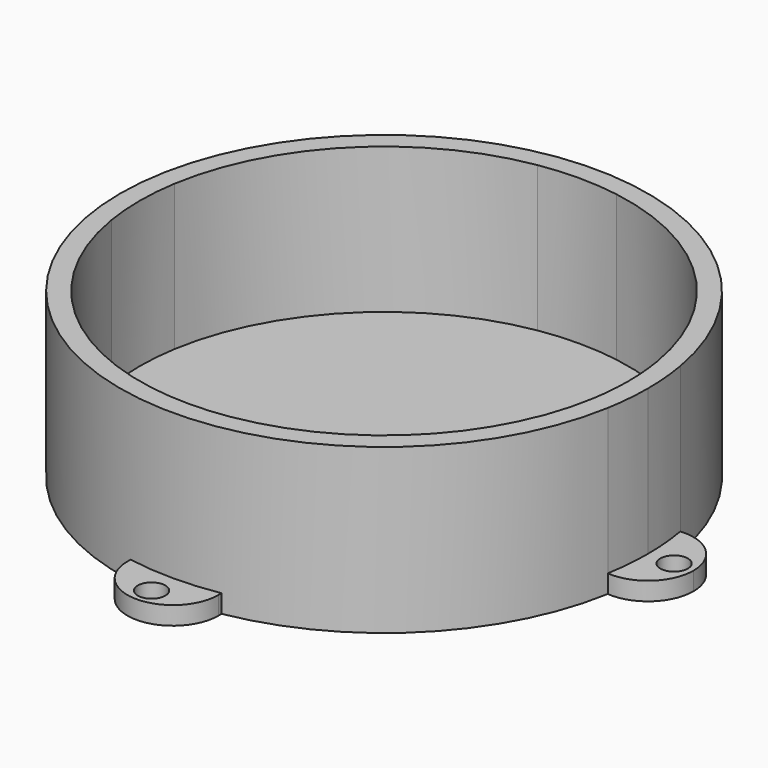
from build123d import *

# Parameters (mm, degrees)
F1_DEPTH = 22.86
F0_R     = 1.8722733439
F0_R_2   = 1.9209804317
F0_R_3   = 1.9256313038
F0_R_4   = 1.8807999876
F2_DEPTH = 2.54


with BuildPart() as f1:
    # F0 (on Top) → F1 (new body)
    with BuildSketch(Plane.XY):
        with BuildLine():
            ThreePointArc((33.6480656978, 5.4952519594), (34.9195825883, 6.055807569), (36.2825862069, 6.3263605761))
            ThreePointArc((36.2825862069, 6.3263605761), (26.0427427511, 26.0427427511), (6.3263605761, 36.2825862069))
            ThreePointArc((6.3263605761, 36.2825862069), (6.055807569, 34.9195825883), (5.4952519594, 33.6480656978))
            ThreePointArc((5.4952519594, 33.6480656978), (24.1079874658, 24.1079874658), (33.6480656978, 5.4952519594))
        make_face()
        with BuildLine():
            ThreePointArc((-5.4952519594, 33.6480656978), (-6.055807569, 34.9195825883), (-6.3263605761, 36.2825862069))
            ThreePointArc((-6.3263605761, 36.2825862069), (-26.0427427511, 26.0427427511), (-36.2825862069, 6.3263605761))
            ThreePointArc((-36.2825862069, 6.3263605761), (-34.9195825883, 6.055807569), (-33.6480656978, 5.4952519594))
            ThreePointArc((-33.6480656978, 5.4952519594), (-24.1079874658, 24.1079874658), (-5.4952519594, 33.6480656978))
        make_face()
        with BuildLine():
            ThreePointArc((-36.2825862069, -6.3263605761), (-26.0427427511, -26.0427427511), (-6.3263605761, -36.2825862069))
            ThreePointArc((-6.3263605761, -36.2825862069), (-6.055807569, -34.9195825883), (-5.4952519594, -33.6480656978))
            ThreePointArc((-5.4952519594, -33.6480656978), (-24.1079874658, -24.1079874658), (-33.6480656978, -5.4952519594))
            ThreePointArc((-33.6480656978, -5.4952519594), (-34.9195825883, -6.055807569), (-36.2825862069, -6.3263605761))
        make_face()
        with BuildLine():
            ThreePointArc((6.3263605761, -36.2825862069), (26.0427427511, -26.0427427511), (36.2825862069, -6.3263605761))
            ThreePointArc((36.2825862069, -6.3263605761), (34.9195825883, -6.055807569), (33.6480656978, -5.4952519594))
            ThreePointArc((33.6480656978, -5.4952519594), (24.1079874658, -24.1079874658), (5.4952519594, -33.6480656978))
            ThreePointArc((5.4952519594, -33.6480656978), (6.055807569, -34.9195825883), (6.3263605761, -36.2825862069))
        make_face()
        with BuildLine():
            ThreePointArc((5.4952519594, 33.6480656978), (6.055807569, 34.9195825883), (6.3263605761, 36.2825862069))
            ThreePointArc((6.3263605761, 36.2825862069), (0, 36.83), (-6.3263605761, 36.2825862069))
            ThreePointArc((-6.3263605761, 36.2825862069), (-6.055807569, 34.9195825883), (-5.4952519594, 33.6480656978))
            ThreePointArc((-5.4952519594, 33.6480656978), (0, 34.0938428357), (5.4952519594, 33.6480656978))
        make_face()
        with BuildLine():
            ThreePointArc((-33.6480656978, 5.4952519594), (-34.9195825883, 6.055807569), (-36.2825862069, 6.3263605761))
            ThreePointArc((-36.2825862069, 6.3263605761), (-36.83, 0), (-36.2825862069, -6.3263605761))
            ThreePointArc((-36.2825862069, -6.3263605761), (-34.9195825883, -6.055807569), (-33.6480656978, -5.4952519594))
            ThreePointArc((-33.6480656978, -5.4952519594), (-34.0938428357, 0), (-33.6480656978, 5.4952519594))
        make_face()
        with BuildLine():
            ThreePointArc((-6.3263605761, -36.2825862069), (0, -36.83), (6.3263605761, -36.2825862069))
            ThreePointArc((6.3263605761, -36.2825862069), (6.055807569, -34.9195825883), (5.4952519594, -33.6480656978))
            ThreePointArc((5.4952519594, -33.6480656978), (0, -34.0938428357), (-5.4952519594, -33.6480656978))
            ThreePointArc((-5.4952519594, -33.6480656978), (-6.055807569, -34.9195825883), (-6.3263605761, -36.2825862069))
        make_face()
        with BuildLine():
            ThreePointArc((36.2825862069, -6.3263605761), (36.6928913415, -3.175), (36.83, 0))
            ThreePointArc((36.83, 0), (36.6928913415, 3.175), (36.2825862069, 6.3263605761))
            ThreePointArc((36.2825862069, 6.3263605761), (34.9195825883, 6.055807569), (33.6480656978, 5.4952519594))
            ThreePointArc((33.6480656978, 5.4952519594), (33.9822158116, 2.7566515627), (34.0938428357, 0))
            ThreePointArc((34.0938428357, 0), (33.9822158116, -2.7566515627), (33.6480656978, -5.4952519594))
            ThreePointArc((33.6480656978, -5.4952519594), (34.9195825883, -6.055807569), (36.2825862069, -6.3263605761))
        make_face()
    extrude(amount=F1_DEPTH)

    # F0 (on Top) → F2 (join)
    with BuildSketch(Plane.XY):
        with BuildLine():
            ThreePointArc((33.6480656978, -5.4952519594), (30.48, 0), (33.6480656978, 5.4952519594))
            ThreePointArc((33.6480656978, 5.4952519594), (24.1079874658, 24.1079874658), (5.4952519594, 33.6480656978))
            ThreePointArc((5.4952519594, 33.6480656978), (0, 30.48), (-5.4952519594, 33.6480656978))
            ThreePointArc((-5.4952519594, 33.6480656978), (-24.1079874658, 24.1079874658), (-33.6480656978, 5.4952519594))
            ThreePointArc((-33.6480656978, 5.4952519594), (-31.3287372896, 3.1715309538), (-30.48, 0))
            ThreePointArc((-30.48, 0), (-31.3287372896, -3.1715309538), (-33.6480656978, -5.4952519594))
            ThreePointArc((-33.6480656978, -5.4952519594), (-24.1079874658, -24.1079874658), (-5.4952519594, -33.6480656978))
            ThreePointArc((-5.4952519594, -33.6480656978), (0, -30.48), (5.4952519594, -33.6480656978))
            ThreePointArc((5.4952519594, -33.6480656978), (24.1079874658, -24.1079874658), (33.6480656978, -5.4952519594))
        make_face()
        with BuildLine():
            ThreePointArc((-6.3263605761, 36.2825862069), (0, 36.83), (6.3263605761, 36.2825862069))
            ThreePointArc((6.3263605761, 36.2825862069), (6.3440873914, 36.5560380121), (6.35, 36.83))
            ThreePointArc((6.35, 36.83), (-0.2739619879, 43.1740873914), (-6.3263605761, 36.2825862069))
        make_face()
        with Locations((0, 40.4162555933)):
            Circle(F0_R, mode=Mode.SUBTRACT)
        with BuildLine():
            ThreePointArc((-5.4952519594, 33.6480656978), (0, 30.48), (5.4952519594, 33.6480656978))
            ThreePointArc((5.4952519594, 33.6480656978), (0, 34.0938428357), (-5.4952519594, 33.6480656978))
        make_face()
        with BuildLine():
            ThreePointArc((36.2825862069, 6.3263605761), (36.6928913415, 3.175), (36.83, 0))
            ThreePointArc((36.83, 0), (36.6928913415, -3.175), (36.2825862069, -6.3263605761))
            ThreePointArc((36.2825862069, -6.3263605761), (41.1222268354, -4.6796675943), (43.18, 0))
            ThreePointArc((43.18, 0), (41.1222268354, 4.6796675943), (36.2825862069, 6.3263605761))
        make_face()
        with Locations((40.4821485281, 0)):
            Circle(F0_R_2, mode=Mode.SUBTRACT)
        with BuildLine():
            ThreePointArc((34.0938428357, 0), (33.9822158116, 2.7566515627), (33.6480656978, 5.4952519594))
            ThreePointArc((33.6480656978, 5.4952519594), (30.48, 0), (33.6480656978, -5.4952519594))
            ThreePointArc((33.6480656978, -5.4952519594), (33.9822158116, -2.7566515627), (34.0938428357, 0))
        make_face()
        with BuildLine():
            ThreePointArc((6.35, -36.83), (6.3440873914, -36.5560380121), (6.3263605761, -36.2825862069))
            ThreePointArc((6.3263605761, -36.2825862069), (0, -36.83), (-6.3263605761, -36.2825862069))
            ThreePointArc((-6.3263605761, -36.2825862069), (-0.2739619879, -43.1740873914), (6.35, -36.83))
        make_face()
        with Locations((0, -40.5566953123)):
            Circle(F0_R_3, mode=Mode.SUBTRACT)
        with BuildLine():
            ThreePointArc((-5.4952519594, -33.6480656978), (0, -34.0938428357), (5.4952519594, -33.6480656978))
            ThreePointArc((5.4952519594, -33.6480656978), (0, -30.48), (-5.4952519594, -33.6480656978))
        make_face()
        with BuildLine():
            ThreePointArc((-30.48, 0), (-31.3287372896, 3.1715309538), (-33.6480656978, 5.4952519594))
            ThreePointArc((-33.6480656978, 5.4952519594), (-34.0938428357, 0), (-33.6480656978, -5.4952519594))
            ThreePointArc((-33.6480656978, -5.4952519594), (-31.3287372896, -3.1715309538), (-30.48, 0))
        make_face()
        with BuildLine():
            ThreePointArc((-36.2825862069, -6.3263605761), (-36.83, 0), (-36.2825862069, 6.3263605761))
            ThreePointArc((-36.2825862069, 6.3263605761), (-43.18, 0), (-36.2825862069, -6.3263605761))
        make_face()
        with Locations((-40.4849722981, 0)):
            Circle(F0_R_4, mode=Mode.SUBTRACT)
    extrude(amount=F2_DEPTH)


solid = f1.part
